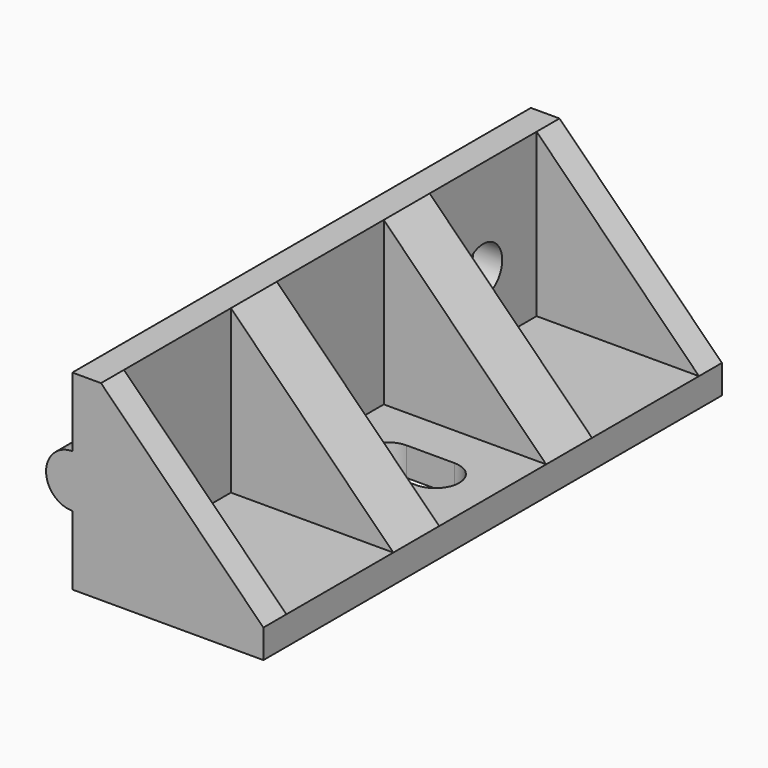
from build123d import *

# Parameters (mm, degrees)
BOX_W            = 20
BOX_H            = 20
BOX_DEPTH        = 20
EXTRUDE001_DEPTH = 50
CYLINDER_R       = 2.5
CYLINDER_DEPTH   = 10
BOX001_W         = 20
BOX001_H         = 14
BOX001_DEPTH     = 20
ARRAY_Y_COUNT    = 3
ARRAY_Y_PITCH    = 20
EXTRUDE_DEPTH    = 30


with BuildPart() as bolt_item_cube_cutter:
    # Box → Box (new body)
    with BuildSketch(Plane(origin=(-20, 10, 0), x_dir=(1, 0, 0), z_dir=(0, 0, 1))):
        with Locations((10, 10)):
            Rectangle(BOX_W, BOX_H)
    extrude(amount=BOX_DEPTH)


with BuildPart() as bottom_bolt_hole_extrude:
    # Sketch001 → Extrude001 (new body)
    with BuildSketch(Plane.XY):
        with BuildLine():
            ThreePointArc((-2.5, 2.5), (-5, 0), (-2.5, -2.5))
            Line((-2.5, -2.5), (2.5, -2.5))
            ThreePointArc((2.5, -2.5), (5, 0), (2.5, 2.5))
            Line((2.5, 2.5), (-2.5, 2.5))
        make_face()
    extrude(amount=EXTRUDE001_DEPTH)


with BuildPart() as bottom_bolt_hole_extrude_1:
    # Extrude001 placement: moved
    add(bottom_bolt_hole_extrude.part.moved(Location((11.5, 0, 0))))


with BuildPart() as bolt_hole:
    # Cylinder → Cylinder (new body)
    with BuildSketch(Plane(origin=(-5, 20, 10), x_dir=(0, 0, -1), z_dir=(1, 0, 0))):
        Circle(CYLINDER_R)
    extrude(amount=CYLINDER_DEPTH)


with BuildPart() as leg_extract:
    # Box001 → Box001 (new body)
    with BuildSketch(Plane(origin=(3, -27, 3), x_dir=(1, 0, 0), z_dir=(0, 0, 1))):
        with Locations((10, 7)):
            Rectangle(BOX001_W, BOX001_H)
    extrude(amount=BOX001_DEPTH)

    # Array Y: leg extract ×3


with BuildPart() as leg_extract_1:
    add(leg_extract.part)
    with Locations(*[(0, i * ARRAY_Y_PITCH, 0) for i in range(1, ARRAY_Y_COUNT)]):
        add(leg_extract.part)

    # Fusion: union bolt item cube cutter, bottom bolt hole extrude, bolt hole
    add(bolt_item_cube_cutter.part)
    add(bottom_bolt_hole_extrude_1.part)
    add(bolt_hole.part)


with BuildPart() as leg_cut:
    # Sketch → Extrude (new body, symmetric)
    with BuildSketch(Plane.XZ):
        with BuildLine():
            Line((0, 20), (3, 20))
            Line((3, 20), (20, 3))
            Line((20, 3), (20, 0))
            Line((20, 0), (0, 0))
            Line((0, 0), (0, 7.25))
            ThreePointArc((0, 12.75), (-2.75, 10), (0, 7.25))
            Line((0, 20), (0, 12.75))
        make_face()
    extrude(amount=EXTRUDE_DEPTH, both=True)

    # Cut: cut leg extract
    add(leg_extract_1.part, mode=Mode.SUBTRACT)


solid = leg_cut.part
